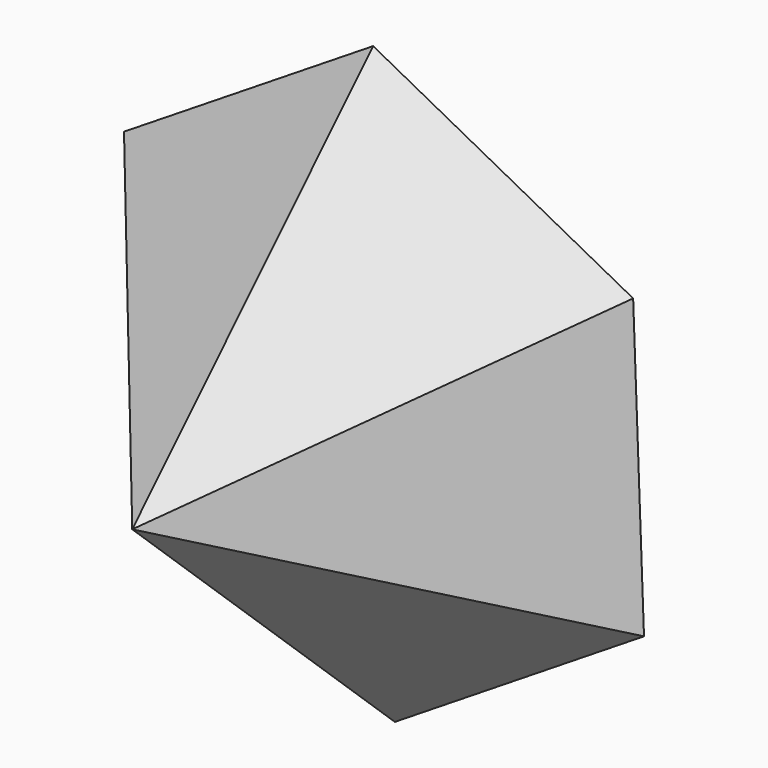
from build123d import *


with BuildPart() as f3:
    # F0 (on Front) → F3 section 0
    with BuildSketch(Plane.XZ, mode=Mode.PRIVATE) as f3_s0:
        Polygon((-1.723217, 46.705284), (-41.309571, 21.860293), (-39.586354, -24.844992), (1.723217, -46.705284), (41.309571, -21.860293), (39.586354, 24.844992), align=None)
    loft([Vertex(0, -50, 0), f3_s0.sketch])


solid = f3.part
